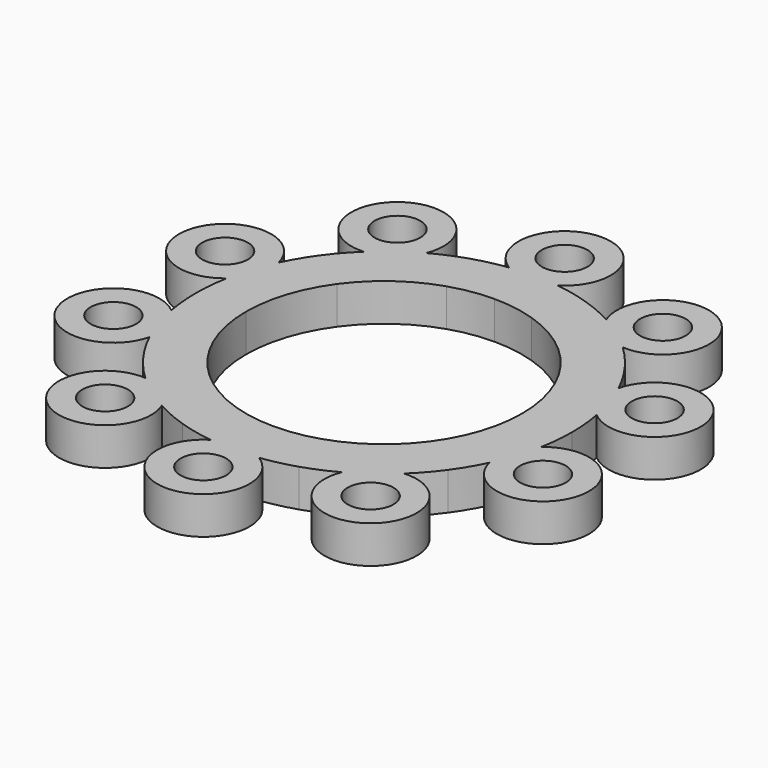
from build123d import *

# Parameters (mm, degrees)
F0_R     = 1.820251
F1_DEPTH = 3


with BuildPart() as f1:
    # F0 (on Top) → F1 (new body)
    with BuildSketch(Plane.XY):
        with BuildLine():
            ThreePointArc((7.178103, 13.170985), (5.931993, 13.777208), (4.635255, 14.265848))
            ThreePointArc((4.635255, 14.265848), (3.298957, 14.632733), (1.934503, 14.874734))
            ThreePointArc((1.934503, 14.874734), (0, 21.67554), (-1.934503, 14.874734))
            ThreePointArc((-1.934503, 14.874734), (-3.298957, 14.632733), (-4.635255, 14.265848))
            ThreePointArc((-4.635255, 14.265848), (-5.931993, 13.777208), (-7.178103, 13.170985))
            ThreePointArc((-7.178103, 13.170985), (-12.740563, 17.53588), (-10.308195, 10.89684))
            ThreePointArc((-10.308195, 10.89684), (-11.269817, 9.899052), (-12.135255, 8.816779))
            ThreePointArc((-12.135255, 8.816779), (-12.897123, 7.659258), (-13.548918, 6.436367))
            ThreePointArc((-13.548918, 6.436367), (-20.614663, 6.69811), (-14.744507, 2.756724))
            ThreePointArc((-14.744507, 2.756724), (-14.93599, 1.384269), (-15, 0))
            ThreePointArc((-15, 0), (-14.93599, -1.384269), (-14.744507, -2.756724))
            ThreePointArc((-14.744507, -2.756724), (-20.614663, -6.69811), (-13.548918, -6.436367))
            ThreePointArc((-13.548918, -6.436367), (-12.897123, -7.659258), (-12.135255, -8.816779))
            ThreePointArc((-12.135255, -8.816779), (-11.269817, -9.899052), (-10.308195, -10.89684))
            ThreePointArc((-10.308195, -10.89684), (-12.740563, -17.53588), (-7.178103, -13.170985))
            ThreePointArc((-7.178103, -13.170985), (-5.931993, -13.777208), (-4.635255, -14.265848))
            ThreePointArc((-4.635255, -14.265848), (-3.298957, -14.632733), (-1.934503, -14.874734))
            ThreePointArc((-1.934503, -14.874734), (0, -21.67554), (1.934503, -14.874734))
            ThreePointArc((1.934503, -14.874734), (3.298957, -14.632733), (4.635255, -14.265848))
            ThreePointArc((4.635255, -14.265848), (5.931993, -13.777208), (7.178103, -13.170985))
            ThreePointArc((7.178103, -13.170985), (12.740563, -17.53588), (10.308195, -10.89684))
            ThreePointArc((10.308195, -10.89684), (11.269817, -9.899052), (12.135255, -8.816779))
            ThreePointArc((12.135255, -8.816779), (12.897123, -7.659258), (13.548918, -6.436367))
            ThreePointArc((13.548918, -6.436367), (20.614663, -6.69811), (14.744507, -2.756724))
            ThreePointArc((14.744507, -2.756724), (14.93599, -1.384269), (15, 0))
            ThreePointArc((15, 0), (14.93599, 1.384269), (14.744507, 2.756724))
            ThreePointArc((14.744507, 2.756724), (20.614663, 6.69811), (13.548918, 6.436367))
            ThreePointArc((13.548918, 6.436367), (12.897123, 7.659258), (12.135255, 8.816779))
            ThreePointArc((12.135255, 8.816779), (11.269817, 9.899052), (10.308195, 10.89684))
            ThreePointArc((10.308195, 10.89684), (12.740563, 17.53588), (7.178103, 13.170985))
        make_face()
        with Locations((-10.580135, -14.562306)):
            Circle(F0_R, mode=Mode.SUBTRACT)
        with Locations((-17.119017, -5.562306)):
            Circle(F0_R, mode=Mode.SUBTRACT)
        with Locations((0, -18)):
            Circle(F0_R, mode=Mode.SUBTRACT)
        with Locations((10.580135, -14.562306)):
            Circle(F0_R, mode=Mode.SUBTRACT)
        with Locations((17.119017, -5.562306)):
            Circle(F0_R, mode=Mode.SUBTRACT)
        with Locations((-17.119017, 5.562306)):
            Circle(F0_R, mode=Mode.SUBTRACT)
        with Locations((-10.580135, 14.562306)):
            Circle(F0_R, mode=Mode.SUBTRACT)
        with BuildLine():
            ThreePointArc((0, 11), (1.720779, 10.864572), (3.399187, 10.461622))
            ThreePointArc((3.399187, 10.461622), (6.465638, 8.899187), (8.899187, 6.465638))
            ThreePointArc((8.899187, 6.465638), (10.461622, 3.399187), (11, 0))
            ThreePointArc((11, 0), (10.461622, -3.399187), (8.899187, -6.465638))
            ThreePointArc((8.899187, -6.465638), (6.465638, -8.899187), (3.399187, -10.461622))
            ThreePointArc((3.399187, -10.461622), (0, -11), (-3.399187, -10.461622))
            ThreePointArc((-3.399187, -10.461622), (-6.465638, -8.899187), (-8.899187, -6.465638))
            ThreePointArc((-8.899187, -6.465638), (-10.461622, -3.399187), (-11, 0))
            ThreePointArc((-11, 0), (-10.461622, 3.399187), (-8.899187, 6.465638))
            ThreePointArc((-8.899187, 6.465638), (-6.465638, 8.899187), (-3.399187, 10.461622))
            ThreePointArc((-3.399187, 10.461622), (-1.720779, 10.864572), (0, 11))
        make_face(mode=Mode.SUBTRACT)
        with Locations((17.119017, 5.562306)):
            Circle(F0_R, mode=Mode.SUBTRACT)
        with BuildLine():
            ThreePointArc((0, 16.179749), (-1.287112, 19.287112), (1.820251, 18))
            ThreePointArc((1.820251, 18), (1.287112, 16.712888), (0, 16.179749))
        make_face(mode=Mode.SUBTRACT)
        with Locations((10.580135, 14.562306)):
            Circle(F0_R, mode=Mode.SUBTRACT)
    extrude(amount=F1_DEPTH)


solid = f1.part
